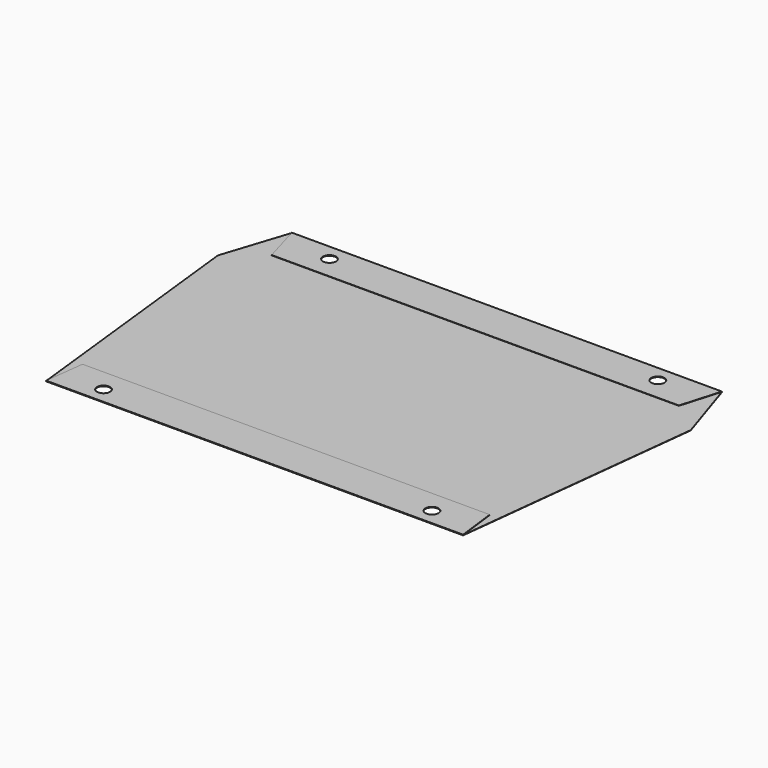
from build123d import *

# Parameters (mm, degrees)
F1_DEPTH = 0.5
F3_DEPTH = 0.5
F4_R     = 10
F5_DEPTH = 25


with BuildPart() as f1:
    # F0 (on Top) → F1 (new body)
    with BuildSketch(Plane.XY):
        Polygon((0, 0), (-655, 0), (-687.5, -100), (-645, -480), (-10, -480), (32.5, -100), align=None)
    extrude(amount=F1_DEPTH)

    # F2 (on face) → F3 (join)
    with BuildSketch(Plane.XY.offset(0.5)):
        Polygon((0, 0), (-655, 0), (-637.5, -60), (-17.5, -60), align=None)
        Polygon((-645, -480), (-10, -480), (-17.5, -420), (-637.5, -420), align=None)
    extrude(amount=F3_DEPTH)

    # F4 (on face) → F5 (cut)
    with BuildSketch(Plane.XY.offset(1)):
        with Locations((-577.5, -25)):
            Circle(F4_R)
        with Locations((-577.5, -455)):
            Circle(F4_R)
        with Locations((-77.5, -25)):
            Circle(F4_R)
        with Locations((-77.5, -455)):
            Circle(F4_R)
    extrude(amount=-F5_DEPTH, mode=Mode.SUBTRACT)


solid = f1.part
